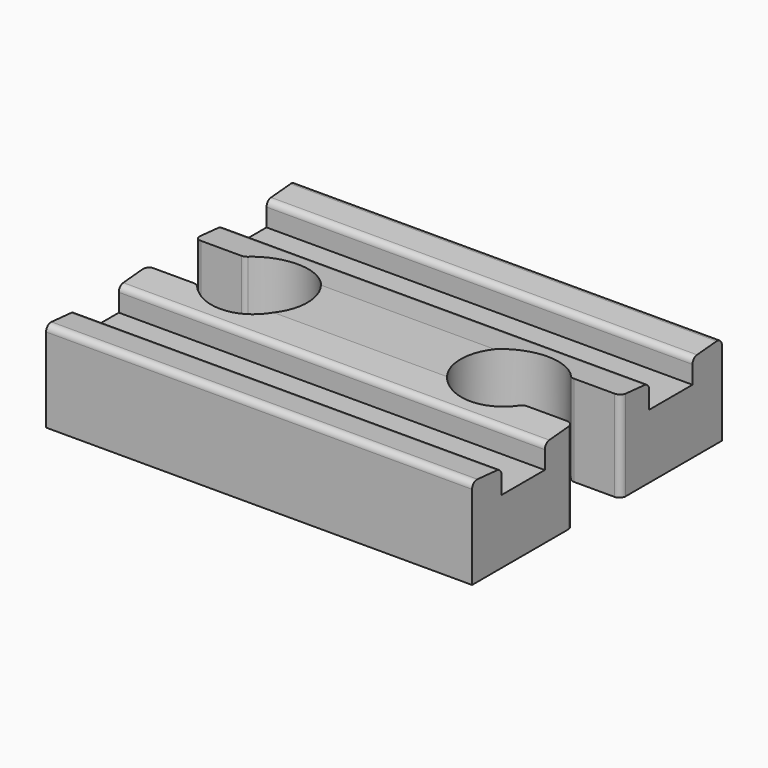
from build123d import *

# Parameters (mm, degrees)
F0_W     = 54.737
F0_H     = 40.132
F1_DEPTH = 11.684
F2_W     = 6.9596
F2_H     = 3.429
F3_DEPTH = 54.738
F5_DEPTH = 54.738
F7_DEPTH = 11.685
F9_DEPTH = 54.738
F10_R    = 0.79375


with BuildPart() as f1:
    # F0 (on Top) → F1 (new body)
    with BuildSketch(Plane.XY):
        with Locations((27.3685, 20.066)):
            Rectangle(F0_W, F0_H)
    extrude(amount=F1_DEPTH)

    # F2 (on face) → F3 (cut, through all)
    with BuildSketch(Plane.YZ.offset(54.737)):
        with Locations((31.9278, 9.9695)):
            Rectangle(F2_W, F2_H)
        with Locations((8.2042, 9.9695)):
            Rectangle(F2_W, F2_H)
    extrude(amount=-F3_DEPTH, mode=Mode.SUBTRACT)

    # F4 (on face) → F5 (cut, through all)
    with BuildSketch(Plane.YZ.offset(54.737)):
        Polygon((4.7244, 11.684), (0, 11.684), (4.7244, 11.287125), align=None)
        Polygon((35.4076, 11.287125), (40.132, 11.684), (35.4076, 11.684), align=None)
    extrude(amount=-F5_DEPTH, mode=Mode.SUBTRACT)

    # F6 (on face) → F7 (cut, through all)
    with BuildSketch(Plane.XY.offset(11.684)):
        with BuildLine():
            Line((0, 16.256), (6.3826718605, 16.256))
            ThreePointArc((6.3826718605, 16.256), (17.526, 20.066), (6.3826718605, 23.876))
            Line((6.3826718605, 23.876), (0, 23.876))
            Line((0, 23.876), (0, 16.256))
        make_face()
        with BuildLine():
            Line((54.737, 23.876), (48.3543281395, 23.876))
            ThreePointArc((48.3543281395, 23.876), (37.211, 20.066), (48.3543281395, 16.256))
            Line((48.3543281395, 16.256), (54.737, 16.256))
            Line((54.737, 16.256), (54.737, 23.876))
        make_face()
    extrude(amount=-F7_DEPTH, mode=Mode.SUBTRACT)

    # F8 (on face) → F9 (cut, through all)
    with BuildSketch(Plane(origin=(0, 0, 0), x_dir=(0, -1, 0), z_dir=(-1, 0, 0))):
        Polygon((-28.448, 11.287125), (-23.876, 11.684), (-28.448, 11.684), align=None)
        Polygon((-16.256, 11.684), (-11.684, 11.287125), (-11.684, 11.684), align=None)
    extrude(amount=-F9_DEPTH, mode=Mode.SUBTRACT)

    # F10
    f10_edges = [f1.edges().sort_by_distance(p)[0] for p in [
        (27.3685, 40.132, 11.684),
        (27.3685, 35.4076, 11.287125),
        (27.3685, 28.448, 11.287125),
        (27.3685, 11.684, 11.287125),
        (27.3685, 4.7244, 11.287125),
        (27.3685, 0, 11.684),
        (54.737, 16.256, 5.842),
        (54.737, 23.876, 5.842),
        (0, 23.876, 5.842),
        (0, 16.256, 5.842),
        (6.382672, 23.876, 5.842),
        (6.382672, 16.256, 5.842),
        (48.354328, 16.256, 5.842),
        (48.354328, 23.876, 5.842),
    ]]
    fillet(f10_edges, radius=F10_R)


solid = f1.part
